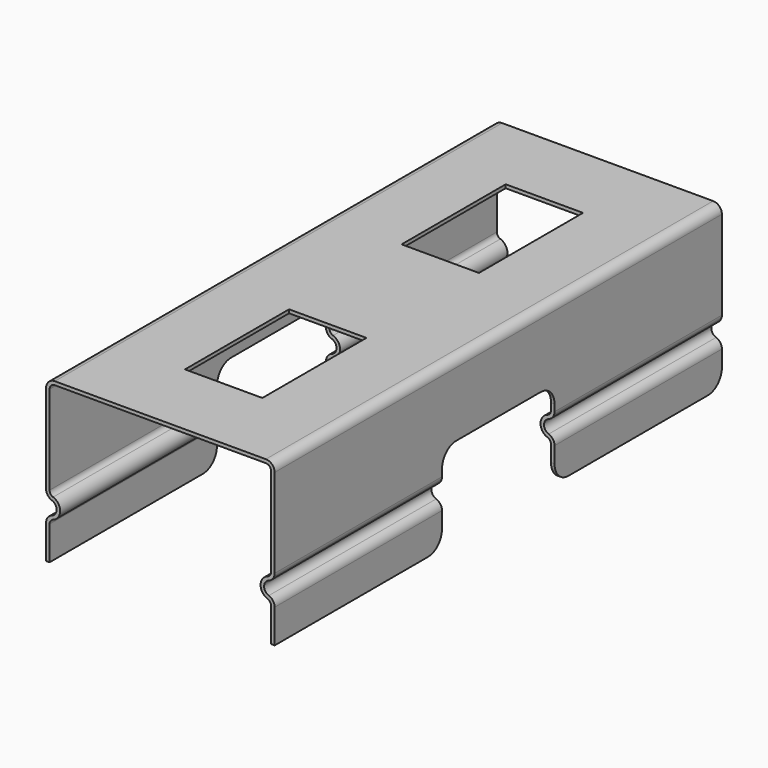
from build123d import *

# Parameters (mm, degrees)
F1_DEPTH = 159
F2_W     = 22
F2_H     = 37
F3_DEPTH = 45.8205918838
F4_W     = 40
F4_H     = 9.5769511967
F5_DEPTH = 65.001
F6_R     = 5


with BuildPart() as f1:
    # F0 (on Front) → F1 (new body)
    with BuildSketch(Plane.XZ):
        with BuildLine():
            ThreePointArc((0.6666666667, 1.8856180832), (2, 0), (0.6666666667, -1.8856180832))
            ThreePointArc((0.6666666667, -1.8856180832), (-0.5412414523, -2.7992650141), (-1, -4.2426406871))
            Line((-1, -4.2426406871), (-1, -13.8195918838))
            Line((-1, -13.8195918838), (0, -13.8195918838))
            Line((0, -13.8195918838), (0, -4.2426406871))
            ThreePointArc((0, -4.2426406871), (0.2752551286, -3.3766152833), (1, -2.8284271247))
            ThreePointArc((1, -2.8284271247), (3, 0), (1, 2.8284271247))
            ThreePointArc((1, 2.8284271247), (0.2752551286, 3.3766152833), (0, 4.2426406871))
            Line((0, 4.2426406871), (0, 29.5))
            ThreePointArc((0, 29.5), (0.4393398282, 30.5606601718), (1.5, 31))
            Line((1.5, 31), (61.5, 31))
            ThreePointArc((61.5, 31), (62.5606601718, 30.5606601718), (63, 29.5))
            Line((63, 29.5), (63, 4.2426406871))
            ThreePointArc((63, 4.2426406871), (62.7247448714, 3.3766152833), (62, 2.8284271247))
            ThreePointArc((62, 2.8284271247), (60, 0), (62, -2.8284271247))
            ThreePointArc((62, -2.8284271247), (62.7247448714, -3.3766152833), (63, -4.2426406871))
            Line((63, -4.2426406871), (63, -13.8195918838))
            Line((63, -13.8195918838), (64, -13.8195918838))
            Line((64, -13.8195918838), (64, -4.2426406871))
            ThreePointArc((64, -4.2426406871), (63.5412414523, -2.7992650141), (62.3333333333, -1.8856180832))
            ThreePointArc((62.3333333333, -1.8856180832), (61, 0), (62.3333333333, 1.8856180832))
            ThreePointArc((62.3333333333, 1.8856180832), (63.5412414523, 2.7992650141), (64, 4.2426406871))
            Line((64, 4.2426406871), (64, 29.5))
            ThreePointArc((64, 29.5), (63.267766953, 31.267766953), (61.5, 32))
            Line((61.5, 32), (1.5, 32))
            ThreePointArc((1.5, 32), (-0.267766953, 31.267766953), (-1, 29.5))
            Line((-1, 29.5), (-1, 4.2426406871))
            ThreePointArc((-1, 4.2426406871), (-0.5412414523, 2.7992650141), (0.6666666667, 1.8856180832))
        make_face()
    extrude(amount=F1_DEPTH)

    # F2 (on face) → F3 (cut, through all)
    with BuildSketch(Plane.XY.offset(32)):
        with Locations((31.5, -118)):
            Rectangle(F2_W, F2_H)
        with Locations((31.5, -41)):
            Rectangle(F2_W, F2_H)
    extrude(amount=-F3_DEPTH, mode=Mode.SUBTRACT)

    # F4 (on face) → F5 (cut, through all)
    with BuildSketch(Plane.YZ.offset(64)):
        with BuildLine():
            Line((-99.5, -4.2426406871), (-59.5, -4.2426406871))
            Line((-59.5, -4.2426406871), (-59.5, 6.1804081162))
            ThreePointArc((-59.5, 6.1804081162), (-60.9644660941, 9.7159420222), (-64.5, 11.1804081162))
            Line((-64.5, 11.1804081162), (-94.5, 11.1804081162))
            ThreePointArc((-94.5, 11.1804081162), (-98.0355339059, 9.7159420222), (-99.5, 6.1804081162))
            Line((-99.5, 6.1804081162), (-99.5, -4.2426406871))
        make_face()
        with Locations((-79.5, -9.0311162854)):
            Rectangle(F4_W, F4_H)
    extrude(amount=-F5_DEPTH, mode=Mode.SUBTRACT)

    # F6
    f6_edges = [f1.edges().sort_by_distance(p)[0] for p in [
        (63.5, 0, -13.819592),
        (63.5, -99.5, -13.819592),
        (63.5, -59.5, -13.819592),
        (-0.5, -99.5, -13.819592),
        (-0.5, -59.5, -13.819592),
    ]]
    fillet(f6_edges, radius=F6_R)


solid = f1.part
